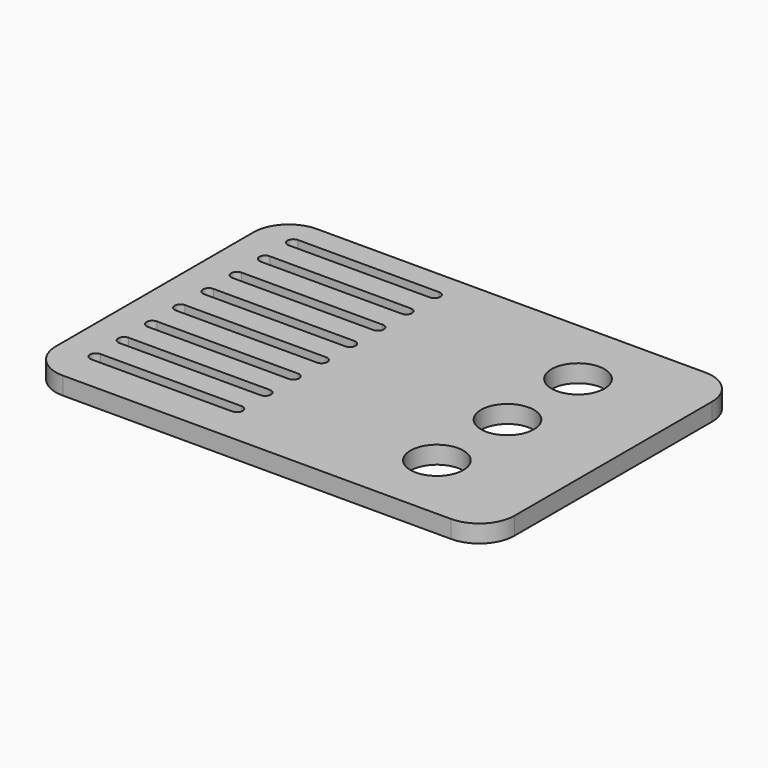
from build123d import *

# Parameters (mm, degrees)
F1_DEPTH = 6.35
F3_DEPTH = 6.351
F4_R     = 9.525
F5_DEPTH = 6.351


with BuildPart() as f1:
    # F0 (on Top) → F1 (new body)
    with BuildSketch(Plane.XY):
        with BuildLine():
            ThreePointArc((82.55, 44.45), (78.830256, 53.430256), (69.85, 57.15))
            Line((69.85, 57.15), (-69.85, 57.15))
            ThreePointArc((-69.85, 57.15), (-78.830256, 53.430256), (-82.55, 44.45))
            Line((-82.55, 44.45), (-82.55, -44.45))
            ThreePointArc((-82.55, -44.45), (-78.830256, -53.430256), (-69.85, -57.15))
            Line((-69.85, -57.15), (69.85, -57.15))
            ThreePointArc((69.85, -57.15), (78.830256, -53.430256), (82.55, -44.45))
            Line((82.55, -44.45), (82.55, 44.45))
        make_face()
    extrude(amount=F1_DEPTH)

    # F2 (on face) → F3 (cut, through all)
    with BuildSketch(Plane.XY.offset(6.35)):
        with BuildLine():
            ThreePointArc((-69.85, -40.299123), (-71.925438, -42.374562), (-69.85, -44.45))
            Line((-69.85, -44.45), (-19.05, -44.45))
            ThreePointArc((-19.05, -44.45), (-16.974562, -42.374562), (-19.05, -40.299123))
            Line((-19.05, -40.299123), (-69.85, -40.299123))
        make_face()
        with BuildLine():
            Line((-19.05, -27.599123), (-69.85, -27.599123))
            ThreePointArc((-69.85, -27.599123), (-71.925438, -29.674562), (-69.85, -31.75))
            Line((-69.85, -31.75), (-19.05, -31.75))
            ThreePointArc((-19.05, -31.75), (-16.974562, -29.674562), (-19.05, -27.599123))
        make_face()
        with BuildLine():
            Line((-19.05, -14.899123), (-69.85, -14.899123))
            ThreePointArc((-69.85, -14.899123), (-71.925438, -16.974562), (-69.85, -19.05))
            Line((-69.85, -19.05), (-19.05, -19.05))
            ThreePointArc((-19.05, -19.05), (-16.974562, -16.974562), (-19.05, -14.899123))
        make_face()
        with BuildLine():
            Line((-19.05, -2.199123), (-69.85, -2.199123))
            ThreePointArc((-69.85, -2.199123), (-71.925438, -4.274562), (-69.85, -6.35))
            Line((-69.85, -6.35), (-19.05, -6.35))
            ThreePointArc((-19.05, -6.35), (-16.974562, -4.274562), (-19.05, -2.199123))
        make_face()
        with BuildLine():
            Line((-19.05, 10.500877), (-69.85, 10.500877))
            ThreePointArc((-69.85, 10.500877), (-71.925438, 8.425438), (-69.85, 6.35))
            Line((-69.85, 6.35), (-19.05, 6.35))
            ThreePointArc((-19.05, 6.35), (-16.974562, 8.425438), (-19.05, 10.500877))
        make_face()
        with BuildLine():
            Line((-19.05, 23.200877), (-69.85, 23.200877))
            ThreePointArc((-69.85, 23.200877), (-71.925438, 21.125438), (-69.85, 19.05))
            Line((-69.85, 19.05), (-19.05, 19.05))
            ThreePointArc((-19.05, 19.05), (-16.974562, 21.125438), (-19.05, 23.200877))
        make_face()
        with BuildLine():
            Line((-19.05, 35.900877), (-69.85, 35.900877))
            ThreePointArc((-69.85, 35.900877), (-71.925438, 33.825438), (-69.85, 31.75))
            Line((-69.85, 31.75), (-19.05, 31.75))
            ThreePointArc((-19.05, 31.75), (-16.974562, 33.825438), (-19.05, 35.900877))
        make_face()
        with BuildLine():
            Line((-19.05, 48.600877), (-69.85, 48.600877))
            ThreePointArc((-69.85, 48.600877), (-71.925438, 46.525438), (-69.85, 44.45))
            Line((-69.85, 44.45), (-19.05, 44.45))
            ThreePointArc((-19.05, 44.45), (-16.974562, 46.525438), (-19.05, 48.600877))
        make_face()
    extrude(amount=-F3_DEPTH, mode=Mode.SUBTRACT)

    # F4 (on face) → F5 (cut, through all)
    with BuildSketch(Plane.XY.offset(6.35)):
        with Locations((44.45, 0)):
            Circle(F4_R)
        with Locations((44.45, -31.75)):
            Circle(F4_R)
        with Locations((44.45, 31.75)):
            Circle(F4_R)
    extrude(amount=-F5_DEPTH, mode=Mode.SUBTRACT)


solid = f1.part
